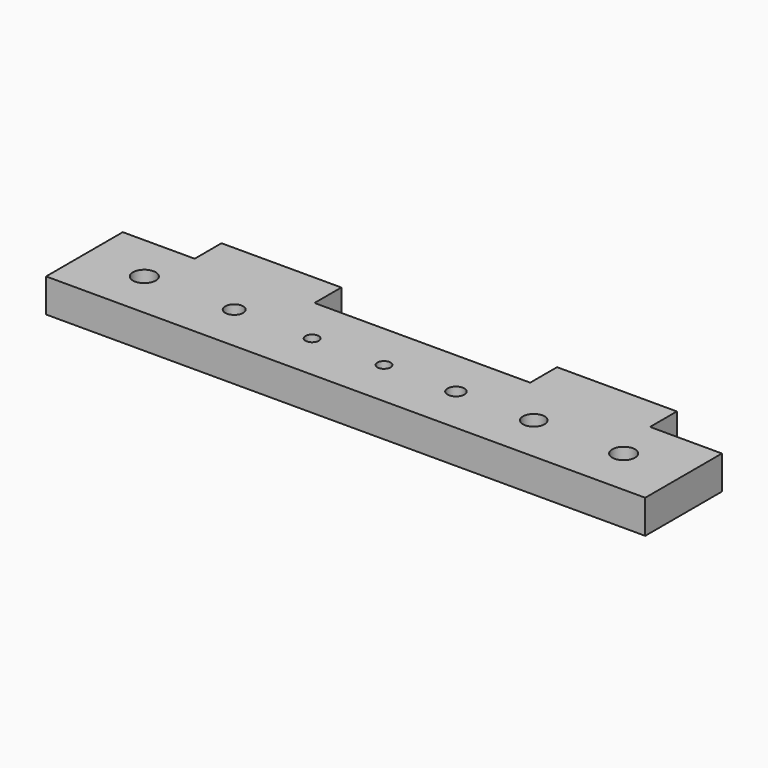
from build123d import *

# Parameters (mm, degrees)
F0_W     = 250
F0_H     = 40
F0_R     = 4.75
F0_R_2   = 3.75
F0_R_3   = 2.75
F0_R_4   = 3.5
F0_R_5   = 4.5
F1_DEPTH = 14
F2_W     = 50
F2_H     = 14
F3_DEPTH = 14


with BuildPart() as f1:
    # F0 (on Top) → F1 (new body)
    with BuildSketch(Plane.XY):
        with Locations((0, -20)):
            Rectangle(F0_W, F0_H)
        with Locations((-100, -20)):
            Circle(F0_R, mode=Mode.SUBTRACT)
        with Locations((-62.5, -20)):
            Circle(F0_R_2, mode=Mode.SUBTRACT)
        with Locations((-30, -20)):
            Circle(F0_R_3, mode=Mode.SUBTRACT)
        with Locations((0, -20)):
            Circle(F0_R_3, mode=Mode.SUBTRACT)
        with Locations((30, -20)):
            Circle(F0_R_4, mode=Mode.SUBTRACT)
        with Locations((62.5, -20)):
            Circle(F0_R_5, mode=Mode.SUBTRACT)
        with Locations((100, -20)):
            Circle(F0_R, mode=Mode.SUBTRACT)
    extrude(amount=F1_DEPTH)

    # F2 (on face) → F3 (join)
    with BuildSketch(Plane(origin=(0, 0, 0), x_dir=(-1, 0, 0), z_dir=(0, 1, 0))):
        with Locations((70, 7)):
            Rectangle(F2_W, F2_H)
        with Locations((-70, 7)):
            Rectangle(F2_W, F2_H)
    extrude(amount=F3_DEPTH)


solid = f1.part
